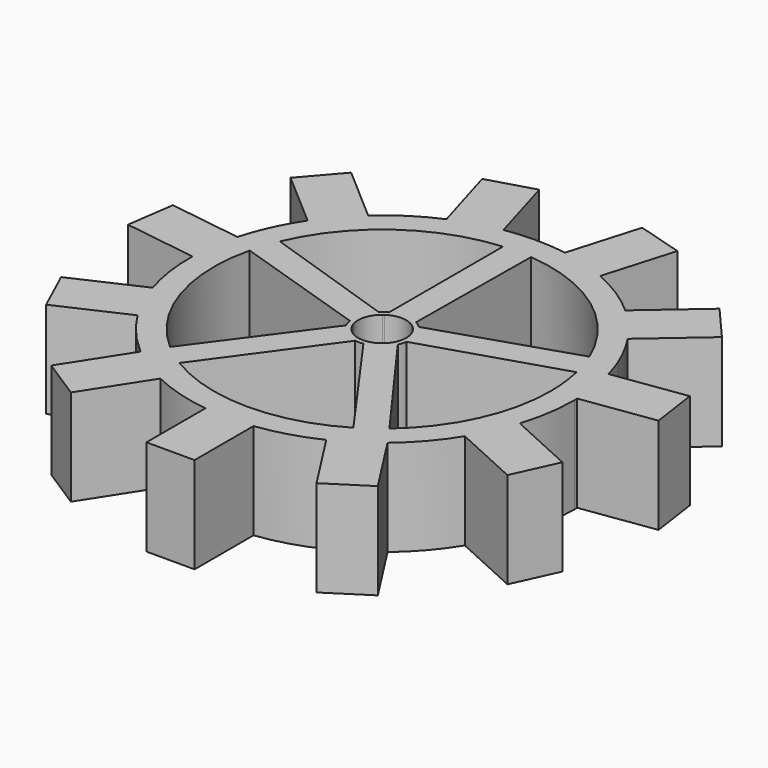
from build123d import *

# Parameters (mm, degrees)
F1_DEPTH = 50.8


with BuildPart() as f1:
    # F0 (on Top) → F1 (new body)
    with BuildSketch(Plane.XY):
        with BuildLine():
            ThreePointArc((96.9695183528, -30.3228051214), (100.4357084523, -15.3371597005), (101.6, 0))
            ThreePointArc((101.6, 0), (101.596123159, 0.8875579239), (101.5844929317, 1.775048113))
            ThreePointArc((101.5844929317, 1.775048113), (100.7819473579, 12.8669765974), (98.7719297038, 23.8047453796))
            Line((98.7719297038, 23.8047453796), (86.6267509761, 19.975385236))
            ThreePointArc((86.6267509761, 19.975385236), (88.329859509, 10.0521599228), (88.9, 0))
            ThreePointArc((88.9, 0), (80.758165685, -37.1662303064), (57.8239893096, -67.5247825641))
            Line((57.8239893096, -67.5247825641), (65.3097252428, -77.828014164))
            ThreePointArc((65.3097252428, -77.828014164), (76.8386016033, -66.4709658697), (86.4179770225, -53.4274578034))
            ThreePointArc((86.4179770225, -53.4274578034), (92.418610728, -42.206165321), (96.9695183528, -30.3228051214))
        make_face()
        with BuildLine():
            ThreePointArc((98.7719297038, 23.8047453796), (100.7819473579, 12.8669765974), (101.5844929317, 1.775048113))
            Line((101.5844929317, 1.775048113), (140.0854538768, 7.3106505949))
            Line((140.0854538768, 7.3106505949), (136.4706569847, 32.4521152187))
            Line((136.4706569847, 32.4521152187), (97.9696960396, 26.9165127368))
            ThreePointArc((97.9696960396, 26.9165127368), (98.383116433, 25.3638009955), (98.7719297038, 23.8047453796))
        make_face()
        with BuildLine():
            Line((132.3513604162, -46.4811509754), (96.9695183528, -30.3228051214))
            ThreePointArc((96.9695183528, -30.3228051214), (92.418610728, -42.206165321), (86.4179770225, -53.4274578034))
            Line((86.4179770225, -53.4274578034), (121.7998190859, -69.5858036574))
            Line((121.7998190859, -69.5858036574), (132.3513604162, -46.4811509754))
        make_face()
        with BuildLine():
            Line((86.6267509761, 19.975385236), (98.7719297038, 23.8047453796))
            ThreePointArc((98.7719297038, 23.8047453796), (98.383116433, 25.3638009955), (97.9696960396, 26.9165127368))
            ThreePointArc((97.9696960396, 26.9165127368), (96.2466744343, 32.5443952215), (94.200655019, 38.0630607545))
            Line((94.200655019, 38.0630607545), (82.0884798482, 34.1275764773))
            ThreePointArc((82.0884798482, 34.1275764773), (84.653874142, 27.1464839849), (86.6267509761, 19.975385236))
        make_face()
        with BuildLine():
            ThreePointArc((65.1822037428, -77.9348466042), (65.2459863585, -77.8814564843), (65.3097252428, -77.828014164))
            Line((65.3097252428, -77.828014164), (57.8239893096, -67.5247825641))
            ThreePointArc((57.8239893096, -67.5247825641), (51.9773262379, -72.1218937435), (45.7668585133, -76.2142024942))
            Line((45.7668585133, -76.2142024942), (53.1618630577, -86.5816165028))
            ThreePointArc((53.1618630577, -86.5816165028), (59.3297665101, -82.4775048474), (65.1822037428, -77.9348466042))
        make_face()
        with BuildLine():
            Line((82.0884798482, 34.1275764773), (94.200655019, 38.0630607545))
            ThreePointArc((94.200655019, 38.0630607545), (89.8195388109, 47.4869502894), (84.4986500968, 56.4139887955))
            ThreePointArc((84.4986500968, 56.4139887955), (76.7841567544, 66.5338505688), (67.8651874546, 75.6100279841))
            ThreePointArc((67.8651874546, 75.6100279841), (54.9291070535, 85.4713589356), (40.5850828951, 93.1418866375))
            ThreePointArc((40.5850828951, 93.1418866375), (28.6240277751, 97.4844861192), (16.2139613653, 100.2978935813))
            ThreePointArc((16.2139613653, 100.2978935813), (12.0585389265, 100.8818697237), (7.8825466337, 101.2937582409))
            Line((7.8825466337, 101.2937582409), (7.7714179249, 88.5596695084))
            ThreePointArc((7.7714179249, 88.5596695084), (52.5301198826, 71.7202656515), (82.0884798482, 34.1275764773))
        make_face()
        with BuildLine():
            Line((86.2114420655, -110.6569801548), (65.1822037428, -77.9348466042))
            ThreePointArc((65.1822037428, -77.9348466042), (59.3297665101, -82.4775048474), (53.1618630577, -86.5816165028))
            ThreePointArc((53.1618630577, -86.5816165028), (48.5547397175, -89.2468332825), (43.8143640089, -91.6671233676))
            Line((43.8143640089, -91.6671233676), (64.8436023316, -124.3892569182))
            Line((64.8436023316, -124.3892569182), (86.2114420655, -110.6569801548))
        make_face()
        with BuildLine():
            ThreePointArc((67.8651874546, 75.6100279841), (76.7841567544, 66.5338505688), (84.4986500968, 56.4139887955))
            Line((84.4986500968, 56.4139887955), (113.8949468584, 81.8860249379))
            Line((113.8949468584, 81.8860249379), (97.2614842162, 101.0820641265))
            Line((97.2614842162, 101.0820641265), (67.8651874546, 75.6100279841))
        make_face()
        with BuildLine():
            ThreePointArc((-7.0905186786, 88.6167847807), (0.3416452612, 88.8993435213), (7.7714179249, 88.5596695084))
            Line((7.7714179249, 88.5596695084), (7.8825466337, 101.2937582409))
            ThreePointArc((7.8825466337, 101.2937582409), (0.3970935062, 101.5992239968), (-7.0905186786, 101.3522794261))
            Line((-7.0905186786, 101.3522794261), (-7.0905186786, 88.6167847807))
        make_face()
        with BuildLine():
            ThreePointArc((43.8143640089, -91.6671233676), (48.5547397175, -89.2468332825), (53.1618630577, -86.5816165028))
            Line((53.1618630577, -86.5816165028), (45.7668585133, -76.2142024942))
            ThreePointArc((45.7668585133, -76.2142024942), (-0.3416452612, -88.8993435213), (-46.3512890898, -75.8601871848))
            Line((-46.3512890898, -75.8601871848), (-53.837025023, -86.1634187847))
            ThreePointArc((-53.837025023, -86.1634187847), (-48.9031812462, -89.0563802543), (-43.8143640089, -91.6671233676))
            ThreePointArc((-43.8143640089, -91.6671233676), (-28.6240277751, -97.4844861192), (-12.7, -100.8031249516))
            ThreePointArc((-12.7, -100.8031249516), (0, -101.6), (12.7, -100.8031249516))
            ThreePointArc((12.7, -100.8031249516), (28.6240277751, -97.4844861192), (43.8143640089, -91.6671233676))
        make_face()
        with BuildLine():
            ThreePointArc((-81.8237505577, 34.7575005526), (-51.9773262379, 72.1218937435), (-7.0905186786, 88.6167847807))
            Line((-7.0905186786, 88.6167847807), (-7.0905186786, 101.3522794261))
            ThreePointArc((-7.0905186786, 101.3522794261), (-11.66416006, 100.9282288069), (-16.2139613653, 100.2978935813))
            ThreePointArc((-16.2139613653, 100.2978935813), (-28.6240277751, 97.4844861192), (-40.5850828951, 93.1418866375))
            ThreePointArc((-40.5850828951, 93.1418866375), (-54.9291070535, 85.4713589356), (-67.8651874546, 75.6100279841))
            ThreePointArc((-67.8651874546, 75.6100279841), (-76.7841567544, 66.5338505688), (-84.4986500968, 56.4139887955))
            ThreePointArc((-84.4986500968, 56.4139887955), (-89.6332547574, 47.8376383364), (-93.9002479663, 38.7982400615))
            Line((-93.9002479663, 38.7982400615), (-81.8237505577, 34.7575005526))
        make_face()
        with BuildLine():
            Line((-53.837025023, -86.1634187847), (-46.3512890898, -75.8601871848))
            ThreePointArc((-46.3512890898, -75.8601871848), (-52.5301198826, -71.7202656515), (-58.3412768566, -67.0783528029))
            Line((-58.3412768566, -67.0783528029), (-65.9160914289, -77.3151271792))
            ThreePointArc((-65.9160914289, -77.3151271792), (-65.5498799562, -77.6258541835), (-65.1822037428, -77.9348466042))
            ThreePointArc((-65.1822037428, -77.9348466042), (-59.6516684933, -82.2449904004), (-53.837025023, -86.1634187847))
        make_face()
        with BuildLine():
            ThreePointArc((16.2139613653, 100.2978935813), (28.6240277751, 97.4844861192), (40.5850828951, 93.1418866375))
            Line((40.5850828951, 93.1418866375), (51.5435989557, 130.4631649421))
            Line((51.5435989557, 130.4631649421), (27.1724774258, 137.6191718858))
            Line((27.1724774258, 137.6191718858), (16.2139613653, 100.2978935813))
        make_face()
        with BuildLine():
            ThreePointArc((-86.4706613894, 20.6406084909), (-84.4427257585, 27.7963318888), (-81.8237505577, 34.7575005526))
            Line((-81.8237505577, 34.7575005526), (-93.9002479663, 38.7982400615))
            ThreePointArc((-93.9002479663, 38.7982400615), (-96.1187427834, 32.9203172181), (-97.9696960396, 26.9165127368))
            ThreePointArc((-97.9696960396, 26.9165127368), (-98.2832331034, 25.7481279076), (-98.5828365602, 24.5760927681))
            Line((-98.5828365602, 24.5760927681), (-86.4706613894, 20.6406084909))
        make_face()
        with BuildLine():
            Line((12.7, -139.7), (12.7, -100.8031249516))
            ThreePointArc((12.7, -100.8031249516), (0, -101.6), (-12.7, -100.8031249516))
            Line((-12.7, -100.8031249516), (-12.7, -139.7))
            Line((-12.7, -139.7), (12.7, -139.7))
        make_face()
        with BuildLine():
            ThreePointArc((-43.8143640089, -91.6671233676), (-48.9031812462, -89.0563802543), (-53.837025023, -86.1634187847))
            ThreePointArc((-53.837025023, -86.1634187847), (-59.6516684933, -82.2449904004), (-65.1822037428, -77.9348466042))
            Line((-65.1822037428, -77.9348466042), (-86.2114420655, -110.6569801548))
            Line((-86.2114420655, -110.6569801548), (-64.8436023316, -124.3892569182))
            Line((-64.8436023316, -124.3892569182), (-43.8143640089, -91.6671233676))
        make_face()
        with BuildLine():
            Line((-65.9160914289, -77.3151271792), (-58.3412768566, -67.0783528029))
            ThreePointArc((-58.3412768566, -67.0783528029), (-84.653874142, -27.1464839849), (-86.4706613894, 20.6406084909))
            Line((-86.4706613894, 20.6406084909), (-98.5828365602, 24.5760927681))
            ThreePointArc((-98.5828365602, 24.5760927681), (-100.7308883031, 13.2607745505), (-101.5844929317, 1.775048113))
            ThreePointArc((-101.5844929317, 1.775048113), (-100.5658584951, -14.4591875686), (-96.9695183528, -30.3228051214))
            ThreePointArc((-96.9695183528, -30.3228051214), (-92.418610728, -42.206165321), (-86.4179770225, -53.4274578034))
            ThreePointArc((-86.4179770225, -53.4274578034), (-77.0978098897, -66.1701421353), (-65.9160914289, -77.3151271792))
        make_face()
        with BuildLine():
            ThreePointArc((-40.5850828951, 93.1418866375), (-28.6240277751, 97.4844861192), (-16.2139613653, 100.2978935813))
            Line((-16.2139613653, 100.2978935813), (-27.1724774258, 137.6191718858))
            Line((-27.1724774258, 137.6191718858), (-51.5435989557, 130.4631649421))
            Line((-51.5435989557, 130.4631649421), (-40.5850828951, 93.1418866375))
        make_face()
        with BuildLine():
            Line((-113.8949468584, 81.8860249379), (-84.4986500968, 56.4139887955))
            ThreePointArc((-84.4986500968, 56.4139887955), (-76.7841567544, 66.5338505688), (-67.8651874546, 75.6100279841))
            Line((-67.8651874546, 75.6100279841), (-97.2614842162, 101.0820641265))
            Line((-97.2614842162, 101.0820641265), (-113.8949468584, 81.8860249379))
        make_face()
        with BuildLine():
            ThreePointArc((-98.5828365602, 24.5760927681), (-98.2832331034, 25.7481279076), (-97.9696960396, 26.9165127368))
            Line((-97.9696960396, 26.9165127368), (-136.4706569847, 32.4521152187))
            Line((-136.4706569847, 32.4521152187), (-140.0854538768, 7.3106505949))
            Line((-140.0854538768, 7.3106505949), (-101.5844929317, 1.775048113))
            ThreePointArc((-101.5844929317, 1.775048113), (-100.7308883031, 13.2607745505), (-98.5828365602, 24.5760927681))
        make_face()
        with BuildLine():
            Line((-121.7998190859, -69.5858036574), (-86.4179770225, -53.4274578034))
            ThreePointArc((-86.4179770225, -53.4274578034), (-92.418610728, -42.206165321), (-96.9695183528, -30.3228051214))
            Line((-96.9695183528, -30.3228051214), (-132.3513604162, -46.4811509754))
            Line((-132.3513604162, -46.4811509754), (-121.7998190859, -69.5858036574))
        make_face()
        with BuildLine():
            Line((-7.8295678477, 9.9993933475), (-10.6179485696, 10.932372486))
            ThreePointArc((-10.6179485696, 10.932372486), (-14.4896137183, 4.7232080512), (-15.0209152577, -2.5748213181))
            Line((-15.0209152577, -2.5748213181), (-12.2117493889, -3.4875746388))
            ThreePointArc((-12.2117493889, -3.4875746388), (-12.0784177569, 3.9245158286), (-7.8295678477, 9.9993933475))
        make_face()
        with BuildLine():
            Line((7.0905186786, 10.5363439992), (7.116177538, 13.4765580638))
            ThreePointArc((7.116177538, 13.4765580638), (0.0145009141, 15.2399931012), (-7.0905186786, 13.4900757918))
            Line((-7.0905186786, 13.4900757918), (-7.0905186786, 10.5363439992))
            ThreePointArc((-7.0905186786, 10.5363439992), (0, 12.7), (7.0905186786, 10.5363439992))
        make_face()
        with BuildLine():
            ThreePointArc((2.1642135184, -15.0855487088), (8.946111704, -12.3379368364), (13.6656177126, -6.7459982606))
            Line((13.6656177126, -6.7459982606), (11.9294577257, -4.3563790435))
            ThreePointArc((11.9294577257, -4.3563790435), (7.4648727041, -10.2745158286), (0.4567575059, -12.6917836643))
            Line((0.4567575059, -12.6917836643), (2.1642135184, -15.0855487088))
        make_face()
        with BuildLine():
            ThreePointArc((-13.6784306448, -6.7199802898), (-8.9695746758, -12.3208899896), (-2.1929174928, -15.0814028814))
            Line((-2.1929174928, -15.0814028814), (-0.4567575059, -12.6917836643))
            ThreePointArc((-0.4567575059, -12.6917836643), (-7.4648727041, -10.2745158286), (-11.9294577257, -4.3563790435))
            Line((-11.9294577257, -4.3563790435), (-13.6784306448, -6.7199802898))
        make_face()
        with BuildLine():
            Line((12.2117493889, -3.4875746388), (15.0159881581, -2.6034015512))
            ThreePointArc((15.0159881581, -2.6034015512), (15.1838937616, -1.3065107101), (15.24, 0))
            ThreePointArc((15.24, 0), (14.0426475751, 5.921287789), (10.6387337165, 10.9121466682))
            Line((10.6387337165, 10.9121466682), (7.8295678477, 9.9993933475))
            ThreePointArc((7.8295678477, 9.9993933475), (11.4176510646, 5.5612268581), (12.7, 0))
            ThreePointArc((12.7, 0), (12.5773450545, -1.7607928272), (12.2117493889, -3.4875746388))
        make_face()
        with BuildLine():
            ThreePointArc((-58.3412768566, -67.0783528029), (-52.5301198826, -71.7202656515), (-46.3512890898, -75.8601871848))
            Line((-46.3512890898, -75.8601871848), (-2.1929174928, -15.0814028814))
            ThreePointArc((-2.1929174928, -15.0814028814), (-8.9695746758, -12.3208899896), (-13.6784306448, -6.7199802898))
            Line((-13.6784306448, -6.7199802898), (-58.3412768566, -67.0783528029))
        make_face()
        with BuildLine():
            ThreePointArc((45.7668585133, -76.2142024942), (51.9773262379, -72.1218937435), (57.8239893096, -67.5247825641))
            Line((57.8239893096, -67.5247825641), (13.6656177126, -6.7459982606))
            ThreePointArc((13.6656177126, -6.7459982606), (8.946111704, -12.3379368364), (2.1642135184, -15.0855487088))
            Line((2.1642135184, -15.0855487088), (45.7668585133, -76.2142024942))
        make_face()
        with BuildLine():
            Line((-10.6179485696, 10.932372486), (-81.8237505577, 34.7575005526))
            ThreePointArc((-81.8237505577, 34.7575005526), (-84.4427257585, 27.7963318888), (-86.4706613894, 20.6406084909))
            Line((-86.4706613894, 20.6406084909), (-15.0209152577, -2.5748213181))
            ThreePointArc((-15.0209152577, -2.5748213181), (-14.4896137183, 4.7232080512), (-10.6179485696, 10.932372486))
        make_face()
        with BuildLine():
            ThreePointArc((-15.0209152577, -2.5748213181), (-14.498575776, -4.6956256736), (-13.6784306448, -6.7199802898))
            Line((-13.6784306448, -6.7199802898), (-11.9294577257, -4.3563790435))
            ThreePointArc((-11.9294577257, -4.3563790435), (-12.0784177569, -3.9245158286), (-12.2117493889, -3.4875746388))
            Line((-12.2117493889, -3.4875746388), (-15.0209152577, -2.5748213181))
        make_face()
        with BuildLine():
            Line((-7.0905186786, 10.5363439992), (-7.0905186786, 13.4900757918))
            ThreePointArc((-7.0905186786, 13.4900757918), (-8.946111704, 12.3379368364), (-10.6179485696, 10.932372486))
            Line((-10.6179485696, 10.932372486), (-7.8295678477, 9.9993933475))
            ThreePointArc((-7.8295678477, 9.9993933475), (-7.4648727041, 10.2745158286), (-7.0905186786, 10.5363439992))
        make_face()
        with BuildLine():
            Line((7.8295678477, 9.9993933475), (10.6387337165, 10.9121466682))
            ThreePointArc((10.6387337165, 10.9121466682), (8.9695746758, 12.3208899896), (7.116177538, 13.4765580638))
            Line((7.116177538, 13.4765580638), (7.0905186786, 10.5363439992))
            ThreePointArc((7.0905186786, 10.5363439992), (7.4648727041, 10.2745158286), (7.8295678477, 9.9993933475))
        make_face()
        with BuildLine():
            Line((15.0159881581, -2.6034015512), (86.6267509761, 19.975385236))
            ThreePointArc((86.6267509761, 19.975385236), (84.653874142, 27.1464839849), (82.0884798482, 34.1275764773))
            Line((82.0884798482, 34.1275764773), (10.6387337165, 10.9121466682))
            ThreePointArc((10.6387337165, 10.9121466682), (14.0426475751, 5.921287789), (15.24, 0))
            ThreePointArc((15.24, 0), (15.1838937616, -1.3065107101), (15.0159881581, -2.6034015512))
        make_face()
        with BuildLine():
            Line((7.116177538, 13.4765580638), (7.7714179249, 88.5596695084))
            ThreePointArc((7.7714179249, 88.5596695084), (0.3416452612, 88.8993435213), (-7.0905186786, 88.6167847807))
            Line((-7.0905186786, 88.6167847807), (-7.0905186786, 13.4900757918))
            ThreePointArc((-7.0905186786, 13.4900757918), (0.0145009141, 15.2399931012), (7.116177538, 13.4765580638))
        make_face()
        with BuildLine():
            ThreePointArc((-2.1929174928, -15.0814028814), (-0.0145009141, -15.2399931012), (2.1642135184, -15.0855487088))
            Line((2.1642135184, -15.0855487088), (0.4567575059, -12.6917836643))
            ThreePointArc((0.4567575059, -12.6917836643), (0, -12.7), (-0.4567575059, -12.6917836643))
            Line((-0.4567575059, -12.6917836643), (-2.1929174928, -15.0814028814))
        make_face()
        with BuildLine():
            ThreePointArc((13.6656177126, -6.7459982606), (14.4896137183, -4.7232080512), (15.0159881581, -2.6034015512))
            Line((15.0159881581, -2.6034015512), (12.2117493889, -3.4875746388))
            ThreePointArc((12.2117493889, -3.4875746388), (12.0784177569, -3.9245158286), (11.9294577257, -4.3563790435))
            Line((11.9294577257, -4.3563790435), (13.6656177126, -6.7459982606))
        make_face()
    extrude(amount=F1_DEPTH)


solid = f1.part
